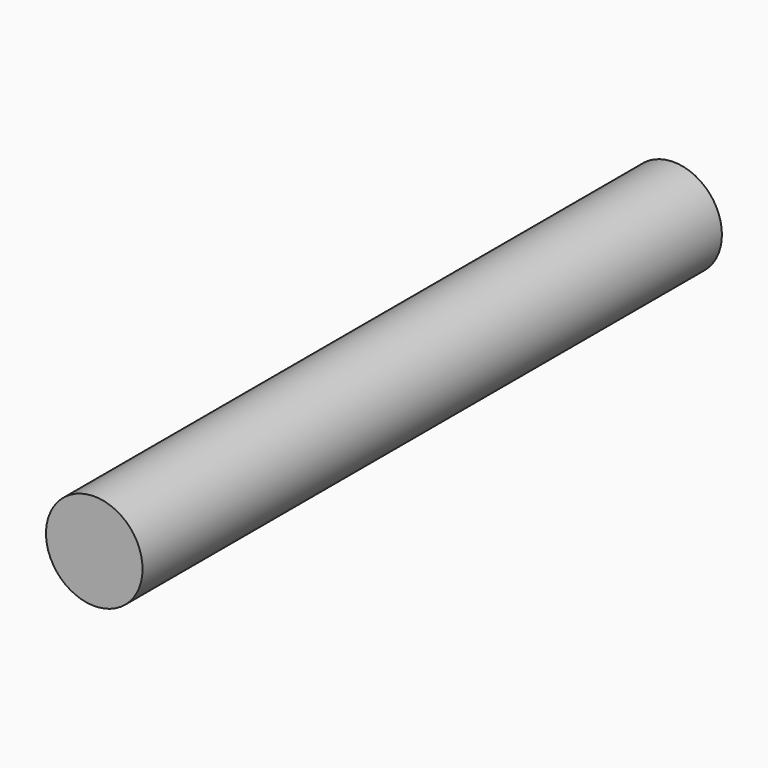
from build123d import *

# Parameters (mm, degrees)
F0_R      = 4.5
F1_DEPTH  = 22.5
F1_FACE_R = 4.5
F2_DEPTH  = 22.5


with BuildPart() as f1:
    # F0 (on Front) → F1 (new body, symmetric)
    with BuildSketch(Plane.XZ):
        Circle(F0_R)
    extrude(amount=F1_DEPTH, both=True)

    # F1_face (on face) → F2 (join, symmetric)
    with BuildSketch(Plane.XZ.offset(22.5)):
        Circle(F1_FACE_R)
    extrude(amount=F2_DEPTH, both=True)


solid = f1.part
